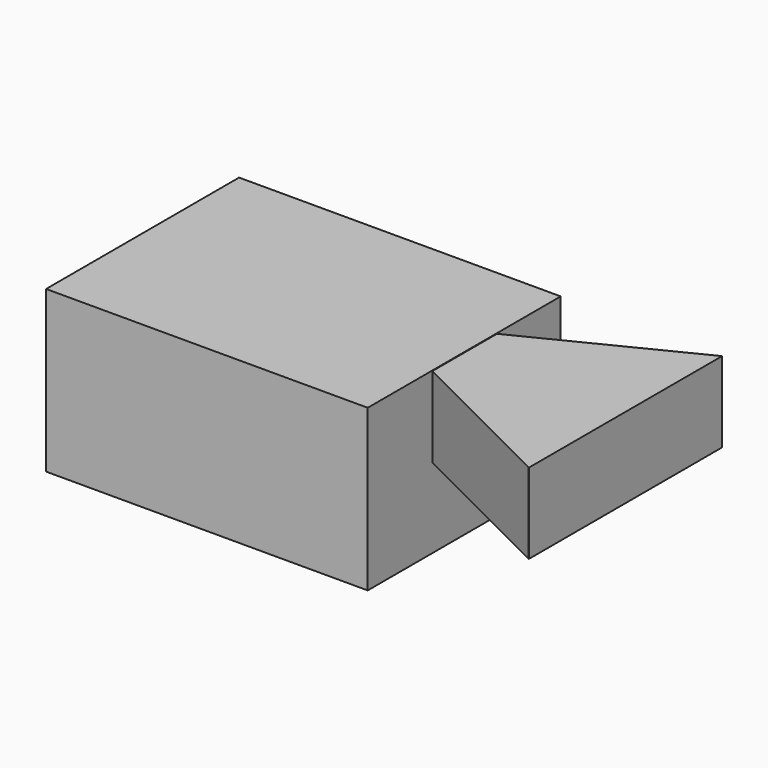
from build123d import *

# Parameters (mm, degrees)
F0_W     = 101.6
F0_H     = 50.8
F1_DEPTH = 76.2
F3_W     = 50.8
F3_H     = 76.2
F4_DEPTH = 25.4
F5_DEPTH = 25.4


with BuildPart() as f1:
    # F0 (on Front) → F1 (new body)
    with BuildSketch(Plane.XZ):
        with Locations((-1.009606, 0.073093)):
            Rectangle(F0_W, F0_H)
    extrude(amount=F1_DEPTH)


with BuildPart() as f4:
    # F3 (on Top) → F4 (new body)
    with BuildSketch(Plane.XY):
        with Locations((75.315385, -38.1)):
            Rectangle(F3_W, F3_H)
    extrude(amount=F4_DEPTH)

    # F2 (on Top) → F5 (cut, through all)
    with BuildSketch(Plane.XY):
        Polygon((49.790394, -25.4), (100.590394, 0), (49.790394, 0), align=None)
        Polygon((49.790394, -50.8), (49.790394, -76.2), (100.590394, -76.2), align=None)
    extrude(amount=F5_DEPTH, mode=Mode.SUBTRACT)


solid = Compound([f1.part, f4.part])
